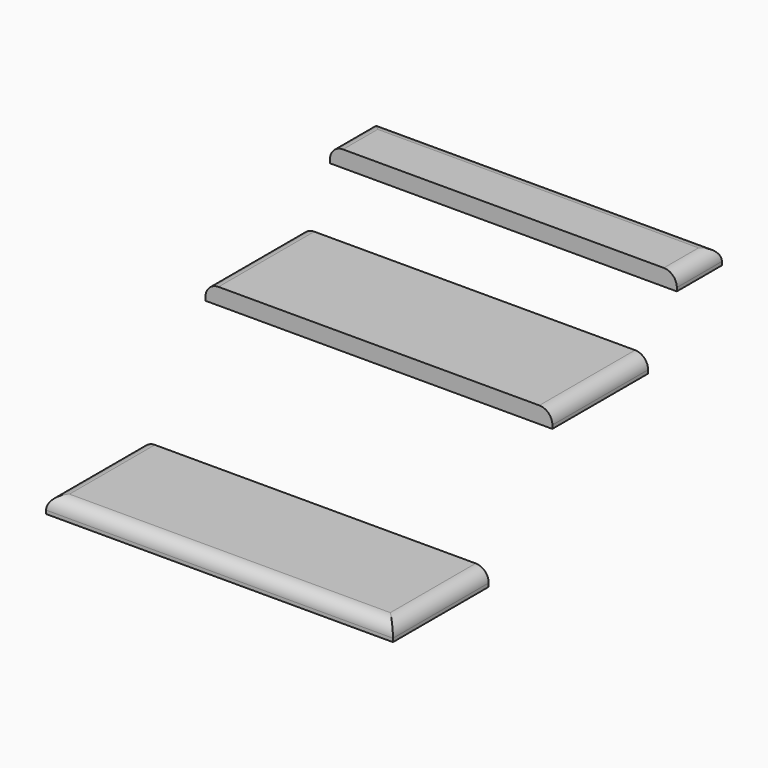
from build123d import *

# Parameters (mm, degrees)
F0_W     = 400
F0_H     = 138
F0_H_2   = 65
F1_DEPTH = 19
F2_R     = 15


with BuildPart() as f1:
    # F0 (on Top) → F1 (new body)
    with BuildSketch(Plane.XY):
        with Locations((0, 27.979947)):
            Rectangle(F0_W, F0_H)
        with Locations((147.689336, -386.424219)):
            Rectangle(F0_W, F0_H)
        with Locations((-79.97537, 270.88377)):
            Rectangle(F0_W, F0_H_2)
    extrude(amount=F1_DEPTH)

    # F2
    f2_edges = [f1.edges().sort_by_distance(p)[0] for p in [
        (147.689336, -455.424219, 19),
        (-52.310664, -386.424219, 19),
        (347.689336, -386.424219, 19),
        (200, 27.979947, 19),
        (-200, 27.979947, 19),
        (-279.97537, 270.88377, 19),
        (-79.97537, 303.38377, 19),
        (120.02463, 270.88377, 19),
    ]]
    fillet(f2_edges, radius=F2_R)


solid = f1.part
